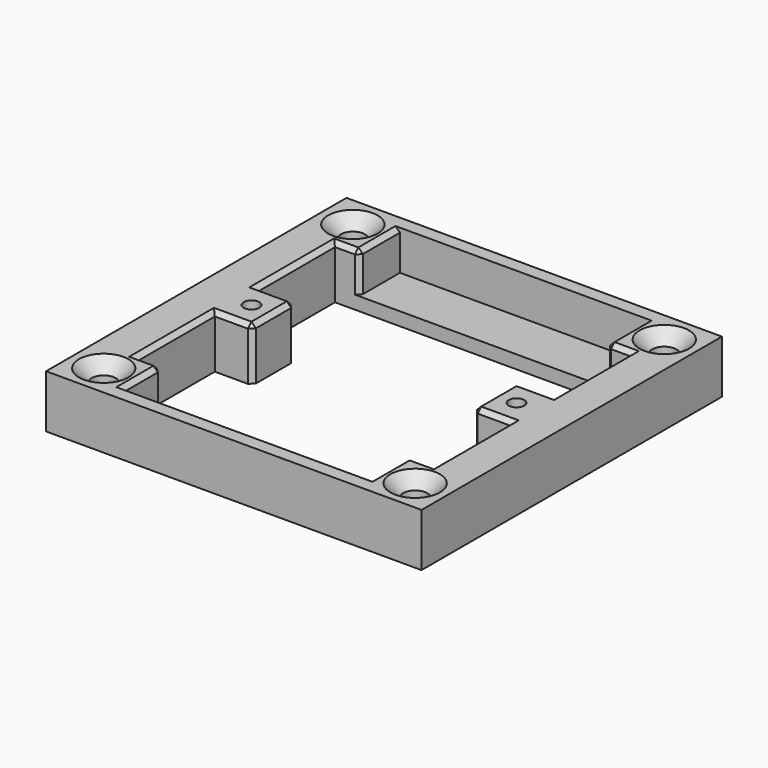
from build123d import *

# Parameters (mm, degrees)
F0_W           = 9
F0_H           = 12
F0_W_2         = 8.5
F1_DEPTH       = 12
F3_D           = 3.5
F4_D           = 5.5
F4_CSINK_D     = 11.2
F4_CSINK_ANGLE = 90
F5_W           = 56
F5_H           = 11.5
F6_DEPTH       = 9
F7_SIZE        = 1


with BuildPart() as f1:
    # F0 (on Top) → F1 (new body)
    with BuildSketch(Plane.XY):
        Polygon((-42.5, -6), (-42.5, -42.5), (42.5, -42.5), (42.5, -6), (33.5, -6), (33.5, -28), (-33.5, -28), (-33.5, -6), align=None)
        Polygon((-42.5, 42.5), (-42.5, 6), (-33.5, 6), (-33.5, 28), (33.5, 28), (33.5, 6), (42.5, 6), (42.5, 42.5), align=None)
        with Locations((-38, 0)):
            Rectangle(F0_W, F0_H)
        with Locations((-29.25, 0)):
            Rectangle(F0_W_2, F0_H)
        with Locations((38, 0)):
            Rectangle(F0_W, F0_H)
        with Locations((29.25, 0)):
            Rectangle(F0_W_2, F0_H)
    extrude(amount=F1_DEPTH)

    # F3 (through all)
    with Locations(Plane.XY.offset(12)):
        with Locations((-30, 0), (30, 0)):
            Hole(F3_D / 2)

    # F4 (through all)
    with Locations(Plane.XY.offset(12)):
        with Locations((-35.25, 35.25), (35.25, 35.25), (35.25, -35.25), (-35.25, -35.25)):
            CounterSinkHole(F4_D / 2, F4_CSINK_D / 2, counter_sink_angle=F4_CSINK_ANGLE)

    # F5 (on face) → F6 (cut)
    with BuildSketch(Plane.XY.offset(12)):
        with Locations((0, -33.75)):
            Rectangle(F5_W, F5_H)
        with Locations((0, 33.75)):
            Rectangle(F5_W, F5_H)
    extrude(amount=-F6_DEPTH, mode=Mode.SUBTRACT)

    # F7
    f7_edges = [f1.edges().sort_by_distance(p)[0] for p in [
        (-30.75, 28, 12),
        (-33.5, 17, 12),
        (-29.25, 6, 12),
        (-25, 0, 12),
        (-29.25, -6, 12),
        (-33.5, -17, 12),
        (-30.75, -28, 12),
        (30.75, 28, 12),
        (33.5, 17, 12),
        (29.25, 6, 12),
        (25, 0, 12),
        (29.25, -6, 12),
        (33.5, -17, 12),
        (30.75, -28, 12),
        (-28, -28, 7.5),
        (28, -28, 7.5),
        (-28, 28, 7.5),
        (28, 28, 7.5),
        (-25, 6, 6),
        (-25, -6, 6),
        (25, 6, 6),
        (25, -6, 6),
        (-28, 33.75, 12),
        (28, 33.75, 12),
        (28, -33.75, 12),
        (-28, -33.75, 12),
    ]]
    chamfer(f7_edges, length=F7_SIZE)


solid = f1.part
